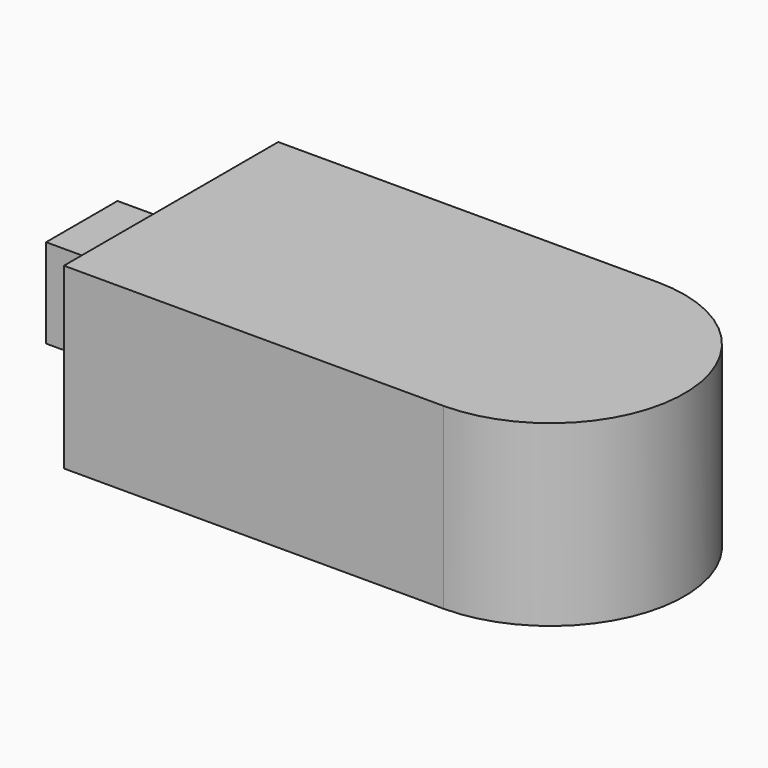
from build123d import *

# Parameters (mm, degrees)
F1_DEPTH = 40
F2_W     = 20
F2_H     = 20
F3_DEPTH = 20


with BuildPart() as f1:
    # F0 (on Top) → F1 (new body)
    with BuildSketch(Plane.XY):
        with BuildLine():
            Line((-62.245019, 44.193867), (-62.245019, -15.806133))
            Line((-62.245019, -15.806133), (-17.245019, -15.806133))
            ThreePointArc((-17.245019, -15.806133), (-47.245019, 14.193867), (-17.245019, 44.193867))
            Line((-17.245019, 44.193867), (-62.245019, 44.193867))
        make_face()
        with BuildLine():
            ThreePointArc((-17.245019, 44.193867), (-47.245019, 14.193867), (-17.245019, -15.806133))
            Line((-17.245019, -15.806133), (22.754981, -15.806133))
            ThreePointArc((22.754981, -15.806133), (52.754981, 14.193867), (22.754981, 44.193867))
            Line((22.754981, 44.193867), (-17.245019, 44.193867))
        make_face()
    extrude(amount=F1_DEPTH)

    # F2 (on face) → F3 (join)
    with BuildSketch(Plane(origin=(-62.245019, 0, 0), x_dir=(0, -1, 0), z_dir=(-1, 0, 0))):
        with Locations((-14.193867, 20)):
            Rectangle(F2_W, F2_H)
    extrude(amount=F3_DEPTH)


solid = f1.part
